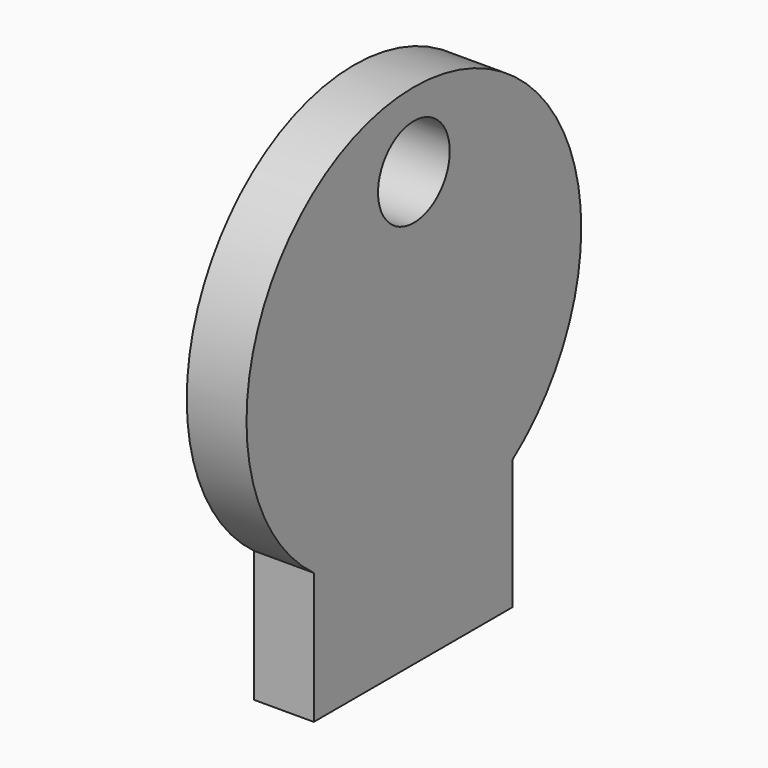
from build123d import *

# Parameters (mm, degrees)
F0_R     = 3
F1_DEPTH = 10
F2_DEPTH = 1.5
F3_DEPTH = 5
F5_DEPTH = 2.5
F6_R     = 7.5
F7_DEPTH = 39.2


with BuildPart() as f1:
    # F0 (on Right) → F1 (new body)
    with BuildSketch(Plane.YZ):
        with BuildLine():
            ThreePointArc((20.61274, -13.2863032171), (31.1965214407, -0.8674840476), (35, 15))
            ThreePointArc((35, 15), (-15.6884798499, 46.2869237861), (-20.93552, -13.0482441933))
            Line((-20.93552, -13.0482441933), (-20.93552, -5))
            Line((-20.93552, -5), (20.61274, -5))
            Line((20.61274, -5), (20.61274, -13.2863032171))
        make_face()
        with BuildLine():
            ThreePointArc((-30, 25), (-18.2276824926, 25.8981970324), (-8, 20))
            ThreePointArc((-8, 20), (-22.6601045644, 6.3955399166), (-30, 25))
        make_face(mode=Mode.SUBTRACT)
        with BuildLine():
            ThreePointArc((8, 20), (18.2276824926, 25.8981970324), (30, 25))
            ThreePointArc((30, 25), (22.6601045644, 6.3955399166), (8, 20))
        make_face(mode=Mode.SUBTRACT)
        with BuildLine():
            ThreePointArc((20.61274, -13.2863032171), (-0.2005361733, -19.9994254988), (-20.93552, -13.0482441933))
            Line((-20.93552, -13.0482441933), (-20.93552, -35))
            Line((-20.93552, -35), (20.61274, -35))
            Line((20.61274, -35), (20.61274, -13.2863032171))
        make_face()
        with BuildLine():
            Line((-20.93552, -5), (-20.93552, -13.0482441933))
            ThreePointArc((-20.93552, -13.0482441933), (-0.2005361733, -19.9994254988), (20.61274, -13.2863032171))
            Line((20.61274, -13.2863032171), (20.61274, -5))
            Line((20.61274, -5), (-20.93552, -5))
        make_face()
        with BuildLine():
            ThreePointArc((-30, 25), (-22.6601045644, 6.3955399166), (-8, 20))
            ThreePointArc((-8, 20), (-18.2276824926, 25.8981970324), (-30, 25))
        make_face()
        with Locations((-13, 18)):
            Circle(F0_R, mode=Mode.SUBTRACT)
        with BuildLine():
            ThreePointArc((8, 20), (22.6601045644, 6.3955399166), (30, 25))
            ThreePointArc((30, 25), (18.2276824926, 25.8981970324), (8, 20))
        make_face()
        with Locations((13, 18)):
            Circle(F0_R, mode=Mode.SUBTRACT)
        with Locations((-13, 18)):
            Circle(F0_R)
        with Locations((13, 18)):
            Circle(F0_R)
    extrude(amount=F1_DEPTH)

    # F0 (on Right) → F2 (join)
    with BuildSketch(Plane.YZ):
        with BuildLine():
            ThreePointArc((-30, 25), (-22.6601045644, 6.3955399166), (-8, 20))
            ThreePointArc((-8, 20), (-18.2276824926, 25.8981970324), (-30, 25))
        make_face()
        with Locations((-13, 18)):
            Circle(F0_R, mode=Mode.SUBTRACT)
        with BuildLine():
            ThreePointArc((8, 20), (22.6601045644, 6.3955399166), (30, 25))
            ThreePointArc((30, 25), (18.2276824926, 25.8981970324), (8, 20))
        make_face()
        with Locations((13, 18)):
            Circle(F0_R, mode=Mode.SUBTRACT)
    extrude(amount=-F2_DEPTH)

    # F0 (on Right) → F3 (cut)
    with BuildSketch(Plane.YZ):
        with Locations((-13, 18)):
            Circle(F0_R)
        with Locations((13, 18)):
            Circle(F0_R)
    extrude(amount=F3_DEPTH, mode=Mode.SUBTRACT)

    # F4 (on face) → F5 (cut)
    with BuildSketch(Plane.YZ):
        with BuildLine():
            Line((-11, -12), (-16, -12))
            Line((-16, -12), (-16, -16.1287648325))
            ThreePointArc((-16, -16.1287648325), (-13.5406838246, -17.2746011836), (-11, -18.2264954517))
            Line((-11, -18.2264954517), (-11, -12))
        make_face()
        with BuildLine():
            Line((-7, -12), (-7, -19.292856399))
            ThreePointArc((-7, -19.292856399), (-4.5117191909, -19.7079874084), (-2, -19.9428104193))
            Line((-2, -19.9428104193), (-2, -12))
            Line((-2, -12), (-7, -12))
        make_face()
        with BuildLine():
            Line((2, -12), (2, -19.9428104193))
            ThreePointArc((2, -19.9428104193), (4.5117191909, -19.7079874084), (7, -19.292856399))
            Line((7, -19.292856399), (7, -12))
            Line((7, -12), (2, -12))
        make_face()
        with BuildLine():
            ThreePointArc((11, -18.2264954517), (13.5406838246, -17.2746011836), (16, -16.1287648325))
            Line((16, -16.1287648325), (16, -12))
            Line((16, -12), (11, -12))
            Line((11, -12), (11, -18.2264954517))
        make_face()
        with BuildLine():
            Line((16, -32), (16, -16.1287648325))
            ThreePointArc((16, -16.1287648325), (13.5406838246, -17.2746011836), (11, -18.2264954517))
            Line((11, -18.2264954517), (11, -32))
            Line((11, -32), (16, -32))
        make_face()
        with BuildLine():
            ThreePointArc((-11, -18.2264954517), (-13.5406838246, -17.2746011836), (-16, -16.1287648325))
            Line((-16, -16.1287648325), (-16, -32))
            Line((-16, -32), (-11, -32))
            Line((-11, -32), (-11, -18.2264954517))
        make_face()
        with BuildLine():
            ThreePointArc((7, -19.292856399), (4.5117191909, -19.7079874084), (2, -19.9428104193))
            Line((2, -19.9428104193), (2, -32))
            Line((2, -32), (7, -32))
            Line((7, -32), (7, -19.292856399))
        make_face()
        with BuildLine():
            ThreePointArc((-2, -19.9428104193), (-4.5117191909, -19.7079874084), (-7, -19.292856399))
            Line((-7, -19.292856399), (-7, -32))
            Line((-7, -32), (-2, -32))
            Line((-2, -32), (-2, -19.9428104193))
        make_face()
    extrude(amount=F5_DEPTH, mode=Mode.SUBTRACT)

    # F6 (on face) → F7 (cut)
    with BuildSketch(Plane.YZ):
        with Locations((0, 37.5)):
            Circle(F6_R)
    extrude(amount=F7_DEPTH, mode=Mode.SUBTRACT)


solid = f1.part
